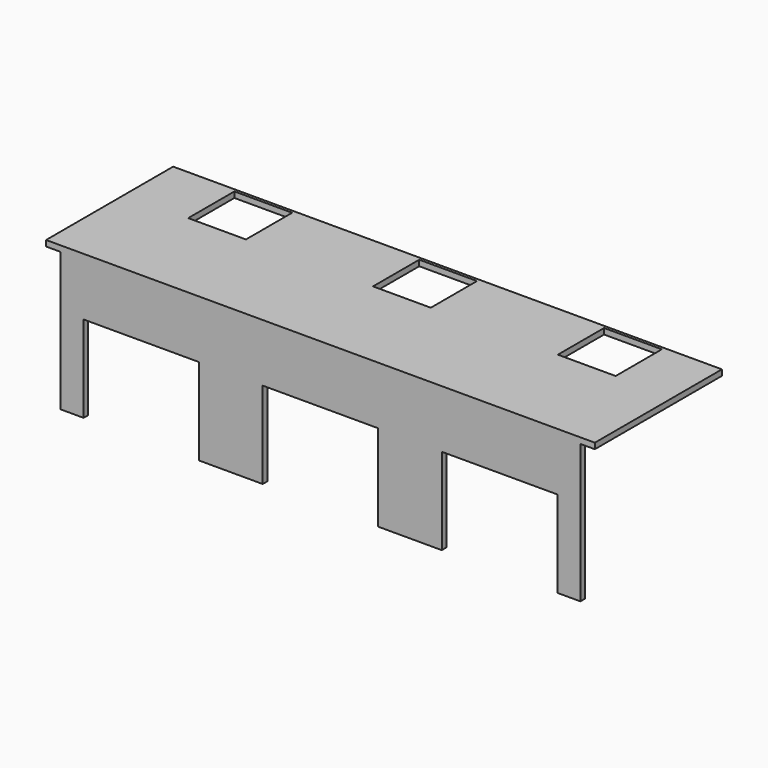
from build123d import *

# Parameters (mm, degrees)
F0_W     = 950
F0_H     = 275
F1_DEPTH = 10
F2_W     = 900
F2_H     = 240
F3_DEPTH = 10
F4_W     = 200
F4_H     = 150
F5_DEPTH = 10
F6_W     = 100
F6_H     = 100
F7_DEPTH = 10


with BuildPart() as f1:
    # F0 (on Top) → F1 (new body)
    with BuildSketch(Plane.XY):
        Rectangle(F0_W, F0_H)
    extrude(amount=F1_DEPTH)

    # F2 (on face) → F3 (join)
    with BuildSketch(Plane.XZ.offset(137.5)):
        with Locations((0, -120)):
            Rectangle(F2_W, F2_H)
    extrude(amount=-F3_DEPTH)

    # F4 (on face) → F5 (cut)
    with BuildSketch(Plane.XZ.offset(137.5)):
        with Locations((-310, -165)):
            Rectangle(F4_W, F4_H)
        with Locations((0, -165)):
            Rectangle(F4_W, F4_H)
        with Locations((310, -165)):
            Rectangle(F4_W, F4_H)
    extrude(amount=-F5_DEPTH, mode=Mode.SUBTRACT)

    # F6 (on face) → F7 (cut)
    with BuildSketch(Plane.XY.offset(10)):
        with Locations((-315, 82.5)):
            Rectangle(F6_W, F6_H)
        with Locations((5, 82.5)):
            Rectangle(F6_W, F6_H)
        with Locations((325, 82.5)):
            Rectangle(F6_W, F6_H)
    extrude(amount=-F7_DEPTH, mode=Mode.SUBTRACT)


solid = f1.part
